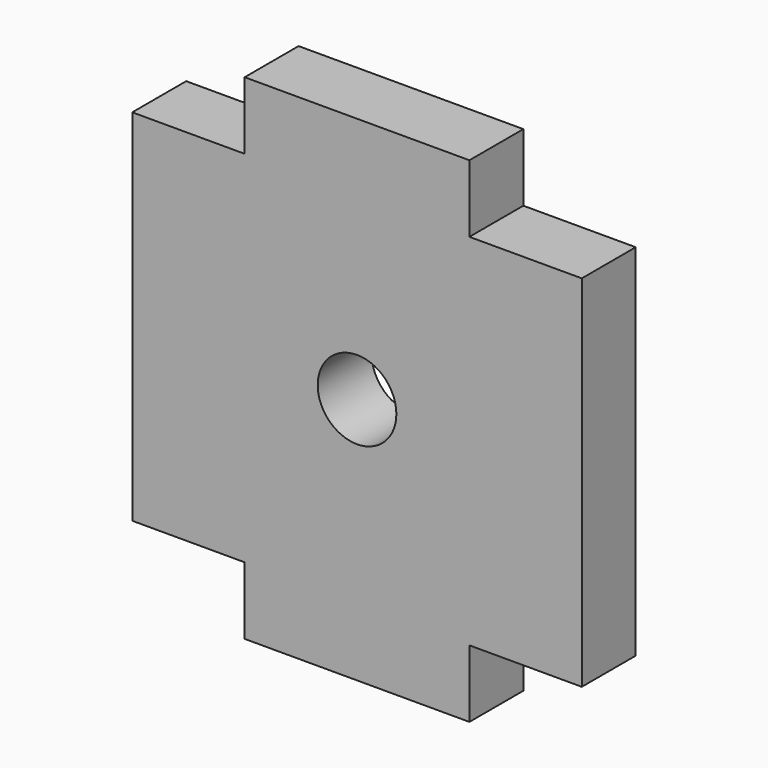
from build123d import *

# Parameters (mm, degrees)
F0_R     = 1.75
F0_W     = 10
F0_H     = 3
F1_DEPTH = 3


with BuildPart() as f1:
    # F0 (on Front) → F1 (new body)
    with BuildSketch(Plane.XZ):
        Polygon((10, -8), (10, 8), (5, 8), (-5, 8), (-10, 8), (-10, -8), (-5, -8), (5, -8), align=None)
        Circle(F0_R, mode=Mode.SUBTRACT)
        with Locations((0, 9.5)):
            Rectangle(F0_W, F0_H)
        with Locations((0, -9.5)):
            Rectangle(F0_W, F0_H)
    extrude(amount=F1_DEPTH)


solid = f1.part
